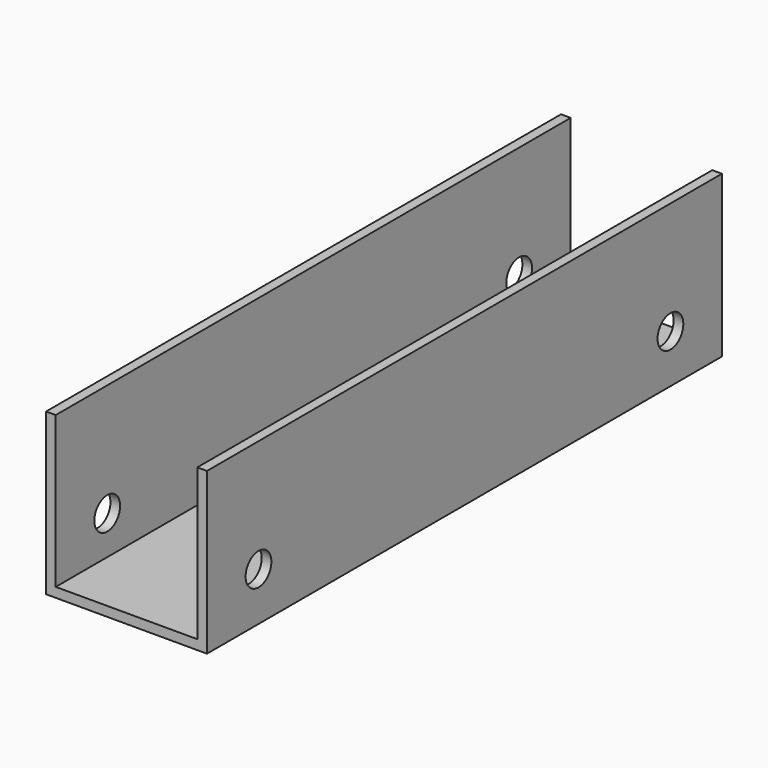
from build123d import *

# Parameters (mm, degrees)
F1_DEPTH = 200
F3_D     = 10
F3_DEPTH = 50


with BuildPart() as f1:
    # F0 (on Front) → F1 (new body)
    with BuildSketch(Plane.XZ):
        Polygon((0, 50), (0, 0), (50, 0), (50, 50), (47, 50), (47, 3), (3, 3), (3, 50), align=None)
    extrude(amount=F1_DEPTH)

    # F3
    with Locations(Plane.YZ.offset(50)):
        with Locations((-180, 15), (-20, 15)):
            Hole(F3_D / 2, depth=F3_DEPTH)


solid = f1.part
